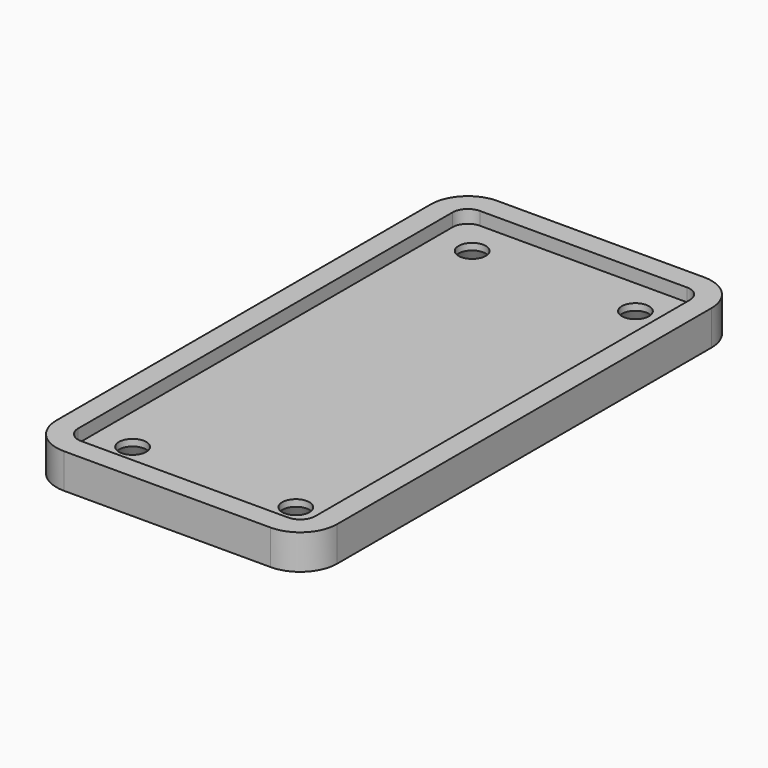
from build123d import *

# Parameters (mm, degrees)
PAD_DEPTH        = 3.2
THICKNESS_T      = -2
SKETCH026_R      = 1.25
POCKET010_DEPTH  = 3.201
CHAMFER001_ANGLE = 60
CHAMFER001_SIZE  = 0.8


with BuildPart() as part:
    # Sketch025 → Pad (new body)
    with BuildSketch(Plane(origin=(0, 0, 0), x_dir=(-1, 0, 0), z_dir=(0, 0, 1))):
        with BuildLine():
            Line((-23.4, -44.000002), (-23.4, -0.999999))
            ThreePointArc((-20, 2.4), (-22.404163, 1.404164), (-23.4, -0.999999))
            Line((-20, 2.4), (-0.999999, 2.4))
            ThreePointArc((2.4, -1), (1.404164, 1.404163), (-0.999999, 2.4))
            Line((2.4, -1), (2.4, -44.000002))
            ThreePointArc((-0.999999, -47.4), (1.404163, -46.404164), (2.4, -44.000002))
            Line((-0.999999, -47.4), (-20.000001, -47.4))
            ThreePointArc((-23.4, -44.000002), (-22.404163, -46.404164), (-20.000001, -47.4))
        make_face()
    extrude(amount=PAD_DEPTH)

    # Thickness
    thickness_openings = [part.faces().sort_by_distance(p)[0] for p in [
        (10.5, 22.5, 3.2),
    ]]
    offset(amount=THICKNESS_T, openings=thickness_openings)

    # Sketch026 (on Face9 of Thickness) → Pocket010 (cut, through all)
    with BuildSketch(Plane(origin=(0, 0, 0), x_dir=(1, 0, 0), z_dir=(0, 0, -1))):
        with Locations((3, -3)):
            Circle(SKETCH026_R)
        with Locations((18, -3)):
            Circle(SKETCH026_R)
        with Locations((18, -42)):
            Circle(SKETCH026_R)
        with Locations((3, -42)):
            Circle(SKETCH026_R)
    extrude(amount=-POCKET010_DEPTH, mode=Mode.SUBTRACT)

    # Chamfer001
    chamfer001_edges = [part.edges().sort_by_distance(p)[0] for p in [
        (1.75, 42, 0),
        (16.75, 42, 0),
        (1.75, 3, 0),
        (16.75, 3, 0),
    ]]
    chamfer001_side = part.faces().sort_by_distance((10.5, 22.5, 0))[0]
    chamfer(chamfer001_edges, length=CHAMFER001_SIZE, angle=CHAMFER001_ANGLE, reference=chamfer001_side)


with BuildPart() as part_1:
    # Body010 placement: moved
    add(part.part.moved(Location((0, 0, -3.6))))


solid = part_1.part
